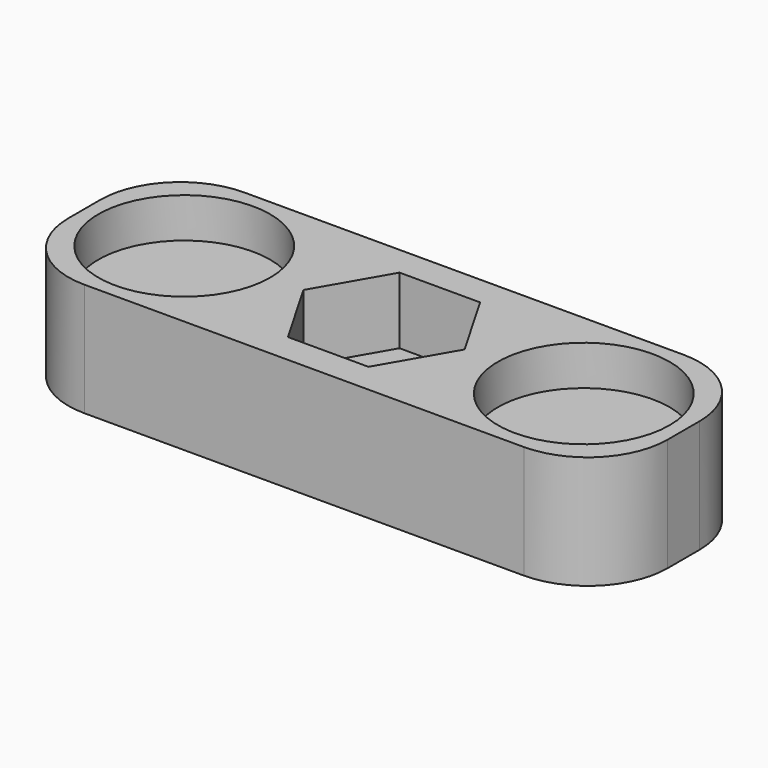
from build123d import *

# Parameters (mm, degrees)
SKETCH_W        = 45
SKETCH_H        = 15
SKETCH_R        = 3.1
PAD_DEPTH       = 8.5
POCKET_DEPTH    = 5
SKETCH002_R     = 6.45
POCKET001_DEPTH = 3
FILLET_R        = 6


with BuildPart() as part:
    # Sketch → Pad (new body)
    with BuildSketch(Plane.XY):
        Rectangle(SKETCH_W, SKETCH_H)
        Circle(SKETCH_R, mode=Mode.SUBTRACT)
    extrude(amount=PAD_DEPTH)

    # Sketch001 → Pocket (cut)
    with BuildSketch(Plane.XY.offset(8.5)):
        Polygon((3.025, -5.239454), (6.05, 0), (3.025, 5.239454), (-3.025, 5.239454), (-6.05, 0), (-3.025, -5.239454), align=None)
    extrude(amount=-POCKET_DEPTH, mode=Mode.SUBTRACT)

    # Sketch002 → Pocket001 (cut)
    with BuildSketch(Plane.XY.offset(8.5)):
        with Locations((15, 0)):
            Circle(SKETCH002_R)
        with Locations((-15, 0)):
            Circle(SKETCH002_R)
    extrude(amount=-POCKET001_DEPTH, mode=Mode.SUBTRACT)

    # Fillet
    fillet_edges = [part.edges().sort_by_distance(p)[0] for p in [
        (-22.5, -7.5, 4.25),
        (-22.5, 7.5, 4.25),
        (22.5, 7.5, 4.25),
        (22.5, -7.5, 4.25),
    ]]
    fillet(fillet_edges, radius=FILLET_R)


solid = part.part
